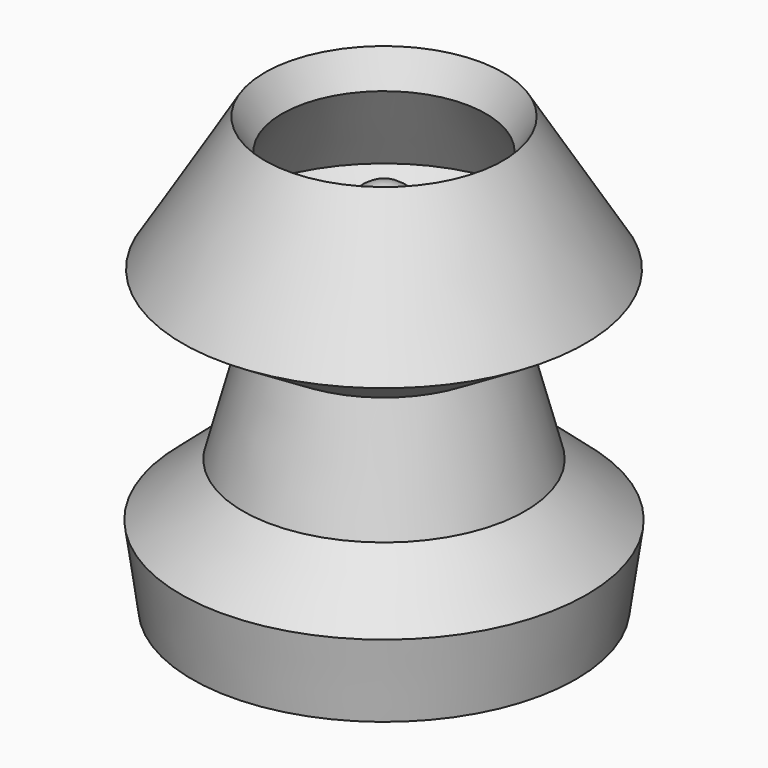
from build123d import *


with BuildPart() as f1:
    # F0 (on Front) → F1 (revolve)
    with BuildSketch(Plane.XZ):
        Polygon((-21.084563, 49.019749), (-24.64242, 55.369749), (-41.635697, 27.61407), (-22.981961, 16.193413), (-29.173962, -6.938921), (0, -6.089257), (0, 13.73623), (0, 21.609018), (-5.112027, 21.609018), (-19.666283, 21.609018), (-32.904414, 29.713998), align=None)
        with BuildLine():
            Line((-5.112027, 32.483828), (-5.112027, 21.609018))
            Line((-5.112027, 21.609018), (0, 21.609018))
            Line((0, 21.609018), (0, 30.065285))
            ThreePointArc((0, 30.065285), (-2.827639, 30.700427), (-5.112027, 32.483828))
        make_face()
        with BuildLine():
            ThreePointArc((0, 43.289019), (-5.976725, 39.504791), (-5.112027, 32.483828))
            ThreePointArc((-5.112027, 32.483828), (-2.827639, 30.700427), (0, 30.065285))
            Line((0, 30.065285), (0, 43.289019))
        make_face()
        Polygon((0, -6.089257), (-29.173962, -6.938921), (-41.918916, -17.984549), (-39.653149, -34.12816), (0, -34.12816), (0, -18.245815), align=None)
    revolve(axis=Axis((0, 0, 3.823487), (0, 0, -1)))


solid = f1.part
